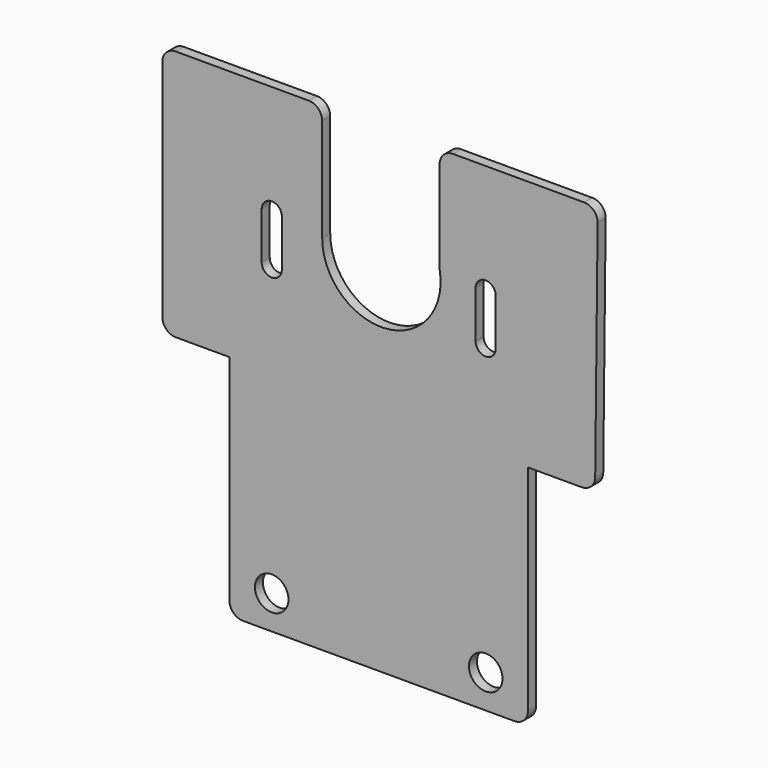
from build123d import *

# Parameters (mm, degrees)
F0_R     = 5
F1_DEPTH = 3


with BuildPart() as f1:
    # F0 (on Front) → F1 (new body)
    with BuildSketch(Plane.XZ):
        with BuildLine():
            ThreePointArc((-0.043294, -4.042833), (-1.199534, -1.186757), (-4.043065, 0))
            Line((-4.043065, 0), (-43.15, 0))
            ThreePointArc((-43.15, 0), (-45.978427, -1.171573), (-47.15, -4))
            Line((-47.15, -4), (-47.15, -31.50963))
            ThreePointArc((-47.15, -31.50963), (-62.872886, -52.32484), (-82.15, -34.75))
            Line((-82.15, -34.75), (-82.15, -4))
            ThreePointArc((-82.15, -4), (-83.321573, -1.171573), (-86.15, 0))
            Line((-86.15, 0), (-125.803168, 0))
            ThreePointArc((-125.803168, 0), (-128.631595, -1.171573), (-129.803168, -4))
            Line((-129.803168, -4), (-129.803168, -71))
            ThreePointArc((-129.803168, -71), (-128.631595, -73.828427), (-125.803168, -75))
            Line((-125.803168, -75), (-109.803168, -75))
            Line((-109.803168, -75), (-109.803168, -138.9))
            ThreePointArc((-109.803168, -138.9), (-108.631595, -141.728427), (-105.803168, -142.9))
            Line((-105.803168, -142.9), (-24.803168, -142.9))
            ThreePointArc((-24.803168, -142.9), (-21.974741, -141.728427), (-20.803168, -138.9))
            Line((-20.803168, -138.9), (-20.803168, -75))
            Line((-20.803168, -75), (-4.803168, -75))
            Line((-4.803168, -75), (-4.760562, -75))
            ThreePointArc((-4.760562, -75), (-1.947319, -73.843531), (-0.760791, -71.042833))
            Line((-0.760791, -71.042833), (-0.043294, -4.042833))
        make_face()
        with Locations((-97.203168, -132.9)):
            Circle(F0_R, mode=Mode.SUBTRACT)
        with Locations((-33.403168, -132.9)):
            Circle(F0_R, mode=Mode.SUBTRACT)
        with BuildLine():
            ThreePointArc((-100.183168, -33), (-97.183168, -30), (-94.183168, -33))
            Line((-94.183168, -33), (-94.183168, -47))
            ThreePointArc((-94.183168, -47), (-97.183168, -50), (-100.183168, -47))
            Line((-100.183168, -47), (-100.183168, -33))
        make_face(mode=Mode.SUBTRACT)
        with BuildLine():
            Line((-36.423168, -47), (-36.423168, -33))
            ThreePointArc((-36.423168, -33), (-33.423168, -30), (-30.423168, -33))
            Line((-30.423168, -33), (-30.423168, -47))
            ThreePointArc((-30.423168, -47), (-33.423168, -50), (-36.423168, -47))
        make_face(mode=Mode.SUBTRACT)
    extrude(amount=F1_DEPTH)


solid = f1.part
